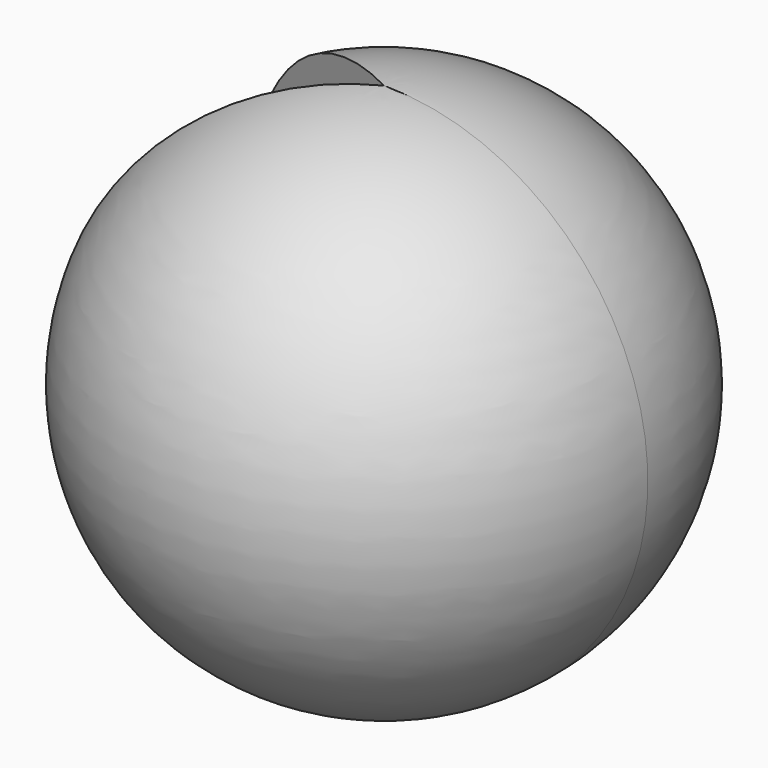
from build123d import *

# Parameters (mm, degrees)
F1_ANGLE = 305.902152


with BuildPart() as f1:
    # F0 (on Front) → F1 (revolve, symmetric)
    with BuildSketch(Plane.XZ) as f1_sk:
        with BuildLine():
            Line((0, 51.418997), (0, -27.551115))
            ThreePointArc((0, -27.551115), (39.669805, 11.933941), (0, 51.418997))
        make_face()
    revolve(axis=Axis((0, 0, 11.933941), (0, 0, 1)), revolution_arc=F1_ANGLE / 2)
    revolve(f1_sk.sketch, axis=Axis((0, 0, 11.933941), (0, 0, -1)), revolution_arc=F1_ANGLE / 2)


solid = f1.part
